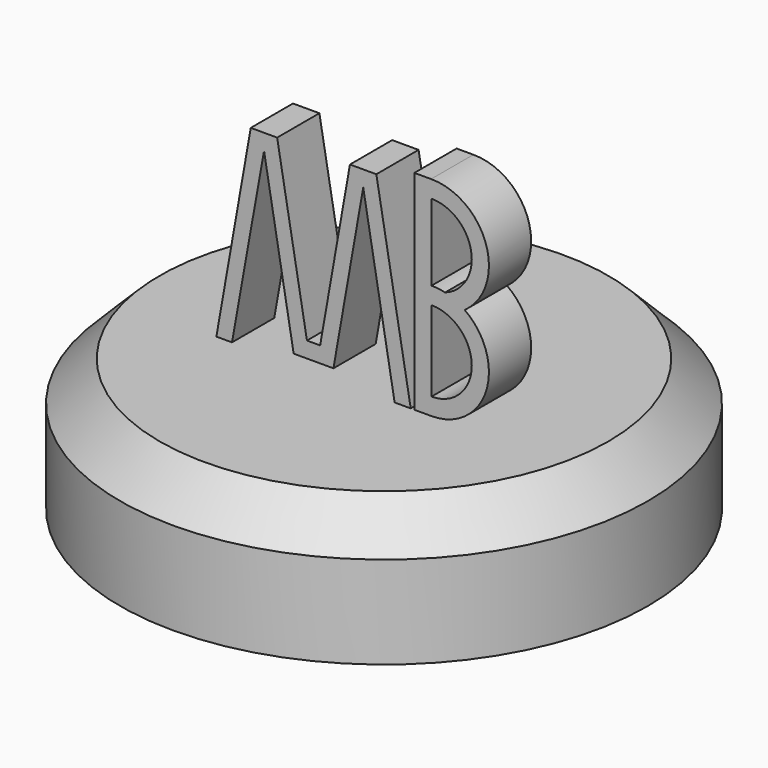
from build123d import *

# Parameters (mm, degrees)
F0_R     = 10
F1_DEPTH = 5
F2_SIZE  = 1.5
F4_DEPTH = 2
F5_DEPTH = 2


with BuildPart() as f1:
    # F0 (on Top) → F1 (new body)
    with BuildSketch(Plane.XY):
        Circle(F0_R)
    extrude(amount=F1_DEPTH)

    # F2
    f2_edges = [f1.edges().sort_by_distance(p)[0] for p in [
        (-10, 0, 5),
    ]]
    chamfer(f2_edges, length=F2_SIZE)

    # F3 (on Front) → F4 (join)
    with BuildSketch(Plane.XZ):
        with BuildLine():
            ThreePointArc((3.4, 5), (5.4725889607, 6.5154547021), (4.656980509, 8.95))
            ThreePointArc((4.656980509, 8.95), (5.4702175315, 11.3919515516), (3.3844468263, 12.8999443898))
            Line((3.3844468263, 12.8999443898), (2.75, 12.8999443898))
            Line((2.75, 12.8999443898), (2.75, 12.2495439026))
            Line((2.75, 12.2495439026), (2.75, 5.6543101017))
            Line((2.75, 5.6543101017), (2.75, 5))
            Line((2.75, 5), (3.4, 5))
        make_face()
        with BuildLine():
            ThreePointArc((3.9126015656, 8.6112676056), (4.90265317, 6.9148876191), (3.4, 5.65))
            Line((3.4, 5.65), (3.4, 8.55))
            Line((3.4, 8.55), (3.4, 8.7))
            Line((3.4, 8.7), (3.4, 8.95))
            Line((3.4, 8.95), (3.4, 9.2))
            Line((3.4, 9.2), (3.4, 9.35))
            Line((3.4, 9.35), (3.4, 12.25))
            ThreePointArc((3.4, 12.25), (4.90265317, 10.9851123809), (3.9126015656, 9.2887323944))
            ThreePointArc((3.9126015656, 9.2887323944), (4.3008551983, 9.1546678791), (4.656980509, 8.95))
            ThreePointArc((4.656980509, 8.95), (4.3008551983, 8.7453321209), (3.9126015656, 8.6112676056))
        make_face(mode=Mode.SUBTRACT)
        with BuildLine():
            ThreePointArc((3.4, 8.7), (3.6601123809, 8.67765317), (3.9126015656, 8.6112676056))
            ThreePointArc((3.9126015656, 8.6112676056), (4.3008551983, 8.7453321209), (4.656980509, 8.95))
            ThreePointArc((4.656980509, 8.95), (4.3008551983, 9.1546678791), (3.9126015656, 9.2887323944))
            ThreePointArc((3.9126015656, 9.2887323944), (3.6601123809, 9.22234683), (3.4, 9.2))
            Line((3.4, 9.2), (3.4, 8.95))
            Line((3.4, 8.95), (3.4, 8.7))
        make_face()
        with BuildLine():
            ThreePointArc((3.4, 9.2), (3.6601123809, 9.22234683), (3.9126015656, 9.2887323944))
            ThreePointArc((3.9126015656, 9.2887323944), (3.6581250107, 9.3346287827), (3.4, 9.35))
            Line((3.4, 9.35), (3.4, 9.2))
        make_face()
    extrude(amount=F4_DEPTH)


with BuildPart() as f5:
    # F3 (on Front) → F5 (new body)
    with BuildSketch(Plane.XZ):
        Polygon((-3.4476386675, 12.3860581476), (-4.75, 5), (-4.1591153482, 5), (-2.9441788888, 11.7860581476), (-1.8223852914, 5.384807753), (-0.315465734, 5.384807753), (0.8132474209, 11.7860581476), (2.0028930075, 5), (2.6121489747, 5), (1.3097876422, 12.3860581476), (0.3097876422, 12.3860581476), (-0.8189255127, 5.984807753), (-1.3189255127, 5.984807753), (-2.4476386675, 12.3860581476), align=None)
    extrude(amount=F5_DEPTH)


solid = Compound([f1.part, f5.part])
